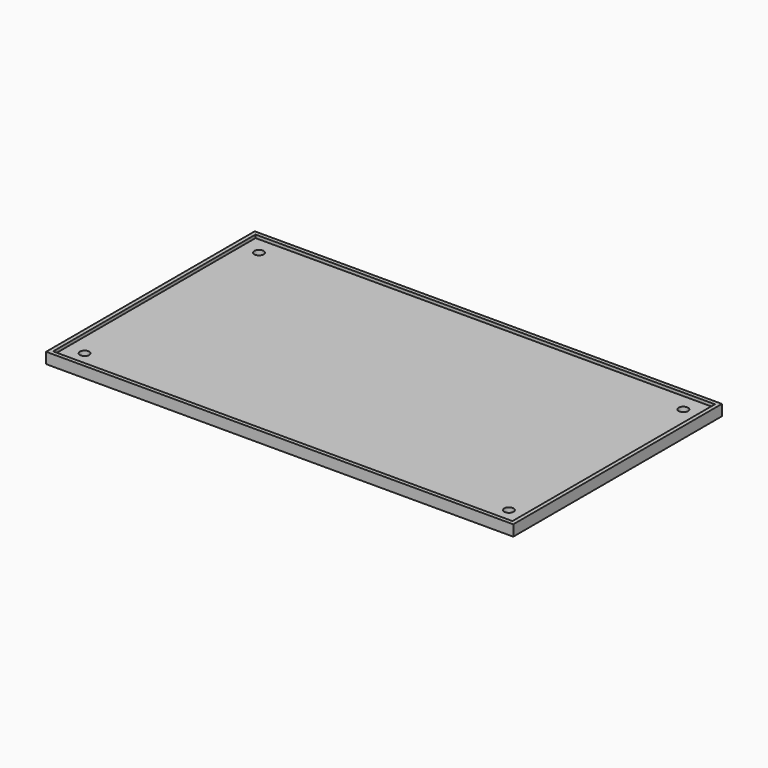
from build123d import *

# Parameters (mm, degrees)
F0_W     = 152.4
F0_H     = 85.09
F1_DEPTH = 2.54
F2_W     = 152.4
F2_H     = 85.09
F2_W_2   = 149.86
F2_H_2   = 82.55
F3_DEPTH = 1.016
F4_R     = 1.524
F5_DEPTH = 25.4


with BuildPart() as f1:
    # F0 (on Top) → F1 (new body)
    with BuildSketch(Plane.XY):
        Rectangle(F0_W, F0_H)
    extrude(amount=F1_DEPTH)

    # F2 (on face) → F3 (join)
    with BuildSketch(Plane.XY.offset(2.54)):
        Rectangle(F2_W, F2_H)
        Rectangle(F2_W_2, F2_H_2, mode=Mode.SUBTRACT)
    extrude(amount=F3_DEPTH)

    # F4 (on face) → F5 (cut)
    with BuildSketch(Plane.XY.offset(2.54)):
        with Locations((69.215, 35.56)):
            Circle(F4_R)
        with Locations((69.215, -35.56)):
            Circle(F4_R)
        with Locations((-69.215, 35.56)):
            Circle(F4_R)
        with Locations((-69.215, -35.56)):
            Circle(F4_R)
    extrude(amount=-F5_DEPTH, mode=Mode.SUBTRACT)


solid = f1.part
